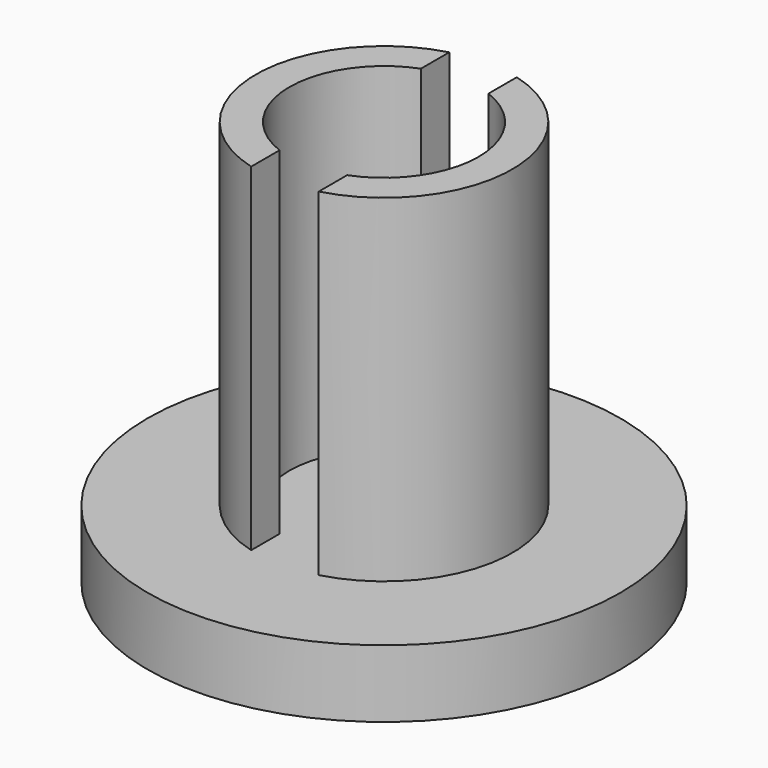
from build123d import *

# Parameters (mm, degrees)
F0_R     = 3.5
F1_DEPTH = 0.5
F2_R     = 1.9
F2_R_2   = 1.4
F3_DEPTH = 5
F4_W     = 1
F4_H     = 6.460969
F5_DEPTH = 5


with BuildPart() as f1:
    # F0 (on Top) → F1 (new body, symmetric)
    with BuildSketch(Plane.XY):
        Circle(F0_R)
    extrude(amount=F1_DEPTH, both=True)

    # F2 (on face) → F3 (join)
    with BuildSketch(Plane.XY.offset(0.5)):
        Circle(F2_R)
        Circle(F2_R_2, mode=Mode.SUBTRACT)
    extrude(amount=F3_DEPTH)

    # F4 (on face) → F5 (cut)
    with BuildSketch(Plane.XY.offset(5.5)):
        with Locations((0, -0.287181)):
            Rectangle(F4_W, F4_H)
    extrude(amount=-F5_DEPTH, mode=Mode.SUBTRACT)


solid = f1.part
